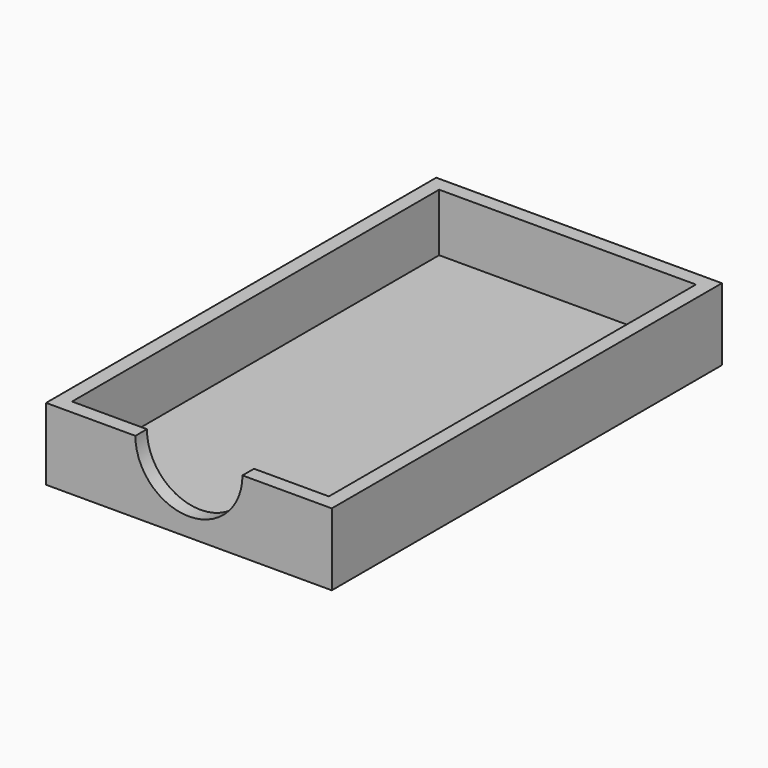
from build123d import *

# Parameters (mm, degrees)
F0_W     = 50.292
F0_H     = 85.852
F1_DEPTH = 12.7
F2_T     = -2.54
F4_DEPTH = 25.4


with BuildPart() as f1:
    # F0 (on Top) → F1 (new body)
    with BuildSketch(Plane.XY):
        with Locations((25.146, -42.926)):
            Rectangle(F0_W, F0_H)
    extrude(amount=F1_DEPTH)

    # F2
    f2_openings = [f1.faces().sort_by_distance(p)[0] for p in [
        (25.146, -42.926, 12.7),
    ]]
    offset(amount=F2_T, openings=f2_openings)

    # F3 (on face) → F4 (cut)
    with BuildSketch(Plane.XZ.offset(85.852)):
        with BuildLine():
            ThreePointArc((15.71989, 12.7), (25.146, 3.27389), (34.57211, 12.7))
            Line((34.57211, 12.7), (15.71989, 12.7))
        make_face()
    extrude(amount=-F4_DEPTH, mode=Mode.SUBTRACT)


solid = f1.part
